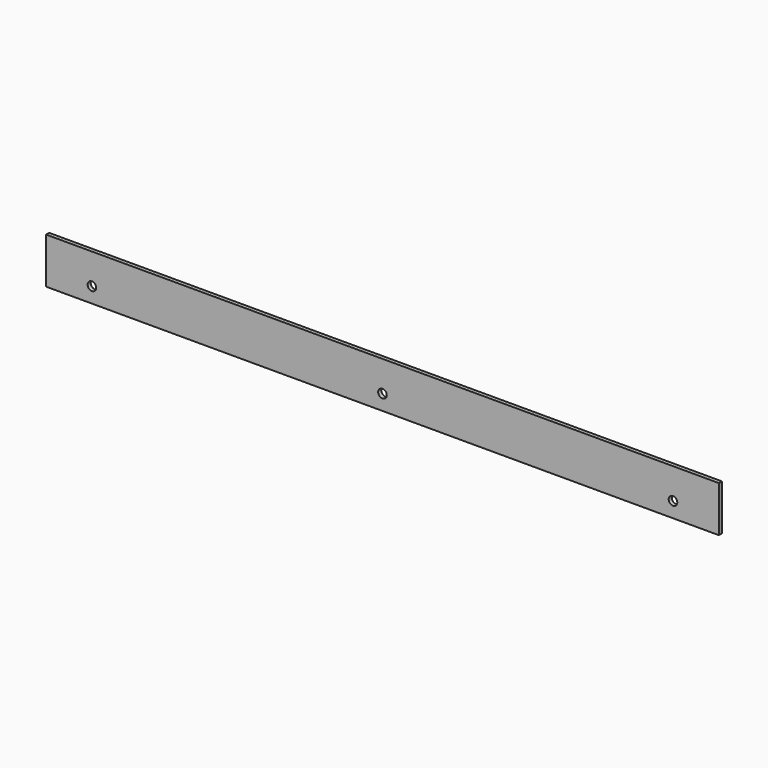
from build123d import *

# Parameters (mm, degrees)
F0_W     = 558.8
F0_H     = 38.1
F1_DEPTH = 3.175
F2_R     = 3.571875
F3_DEPTH = 3.176


with BuildPart() as f1:
    # F0 (on Front) → F1 (new body)
    with BuildSketch(Plane.XZ):
        with Locations((279.4, 19.05)):
            Rectangle(F0_W, F0_H)
    extrude(amount=-F1_DEPTH)

    # F2 (on face) → F3 (cut, through all)
    with BuildSketch(Plane.XZ):
        with Locations((38.1, 12.7)):
            Circle(F2_R)
        with Locations((279.4, 12.7)):
            Circle(F2_R)
        with Locations((520.7, 12.7)):
            Circle(F2_R)
    extrude(amount=-F3_DEPTH, mode=Mode.SUBTRACT)


solid = f1.part
